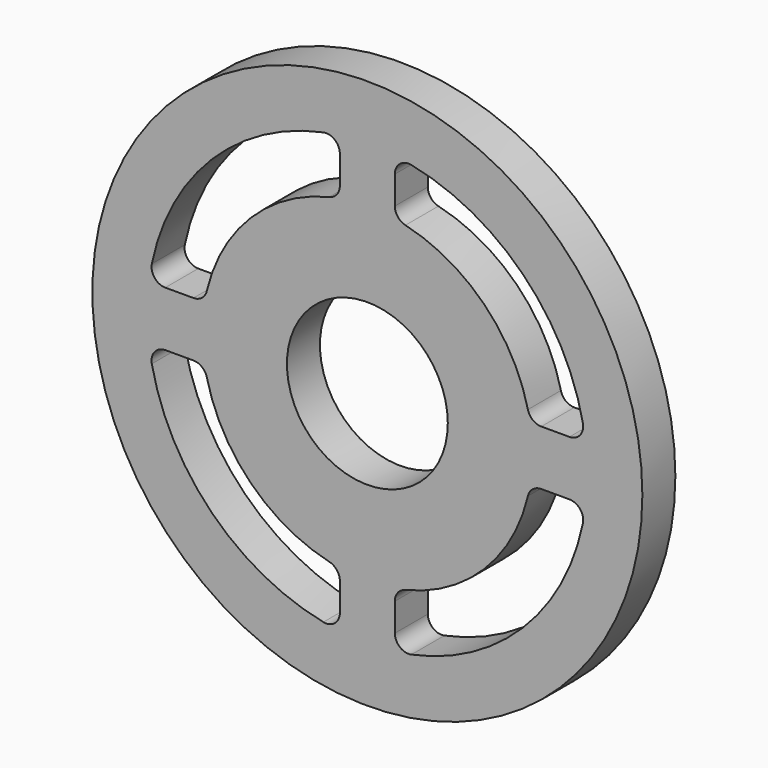
from build123d import *

# Parameters (mm, degrees)
F0_R     = 127
F0_R_2   = 37.1475
F1_DEPTH = 19.05
F3_DEPTH = 25.4


with BuildPart() as f1:
    # F0 (on Front) → F1 (new body)
    with BuildSketch(Plane.XZ):
        Circle(F0_R)
        Circle(F0_R_2, mode=Mode.SUBTRACT)
    extrude(amount=F1_DEPTH)

    # F2 (on face) → F3 (cut)
    with BuildSketch(Plane(origin=(0, 0, 0), x_dir=(-1, 0, 0), z_dir=(0, 1, 0))):
        with BuildLine():
            ThreePointArc((-17.584615, 74.143249), (-14.06865, 76.38375), (-12.7, 80.321853))
            Line((-12.7, 80.321853), (-12.7, 93.325559))
            ThreePointArc((-12.7, 93.325559), (-15.033907, 98.244248), (-20.32, 99.547263))
            ThreePointArc((-20.32, 99.547263), (-71.842049, 71.842049), (-99.547263, 20.32))
            ThreePointArc((-99.547263, 20.32), (-98.244248, 15.033907), (-93.325559, 12.7))
            Line((-93.325559, 12.7), (-80.321853, 12.7))
            ThreePointArc((-80.321853, 12.7), (-76.38375, 14.06865), (-74.143249, 17.584615))
            ThreePointArc((-74.143249, 17.584615), (-53.881537, 53.881537), (-17.584615, 74.143249))
        make_face()
        with BuildLine():
            ThreePointArc((17.584615, 74.143249), (53.881537, 53.881537), (74.143249, 17.584615))
            ThreePointArc((74.143249, 17.584615), (76.38375, 14.06865), (80.321853, 12.7))
            Line((80.321853, 12.7), (93.325559, 12.7))
            ThreePointArc((93.325559, 12.7), (98.244248, 15.033907), (99.547263, 20.32))
            ThreePointArc((99.547263, 20.32), (71.842049, 71.842049), (20.32, 99.547263))
            ThreePointArc((20.32, 99.547263), (15.033907, 98.244248), (12.7, 93.325559))
            Line((12.7, 93.325559), (12.7, 80.321853))
            ThreePointArc((12.7, 80.321853), (14.06865, 76.38375), (17.584615, 74.143249))
        make_face()
        with BuildLine():
            Line((93.325559, -12.7), (80.321853, -12.7))
            ThreePointArc((80.321853, -12.7), (76.38375, -14.06865), (74.143249, -17.584615))
            ThreePointArc((74.143249, -17.584615), (53.881537, -53.881537), (17.584615, -74.143249))
            ThreePointArc((17.584615, -74.143249), (14.06865, -76.38375), (12.7, -80.321853))
            Line((12.7, -80.321853), (12.7, -93.325559))
            ThreePointArc((12.7, -93.325559), (15.033907, -98.244248), (20.32, -99.547263))
            ThreePointArc((20.32, -99.547263), (71.842049, -71.842049), (99.547263, -20.32))
            ThreePointArc((99.547263, -20.32), (98.244248, -15.033907), (93.325559, -12.7))
        make_face()
        with BuildLine():
            ThreePointArc((-74.143249, -17.584615), (-76.38375, -14.06865), (-80.321853, -12.7))
            Line((-80.321853, -12.7), (-93.325559, -12.7))
            ThreePointArc((-93.325559, -12.7), (-98.244248, -15.033907), (-99.547263, -20.32))
            ThreePointArc((-99.547263, -20.32), (-71.842049, -71.842049), (-20.32, -99.547263))
            ThreePointArc((-20.32, -99.547263), (-15.033907, -98.244248), (-12.7, -93.325559))
            Line((-12.7, -93.325559), (-12.7, -80.321853))
            ThreePointArc((-12.7, -80.321853), (-14.06865, -76.38375), (-17.584615, -74.143249))
            ThreePointArc((-17.584615, -74.143249), (-53.881537, -53.881537), (-74.143249, -17.584615))
        make_face()
    extrude(amount=-F3_DEPTH, mode=Mode.SUBTRACT)


solid = f1.part
